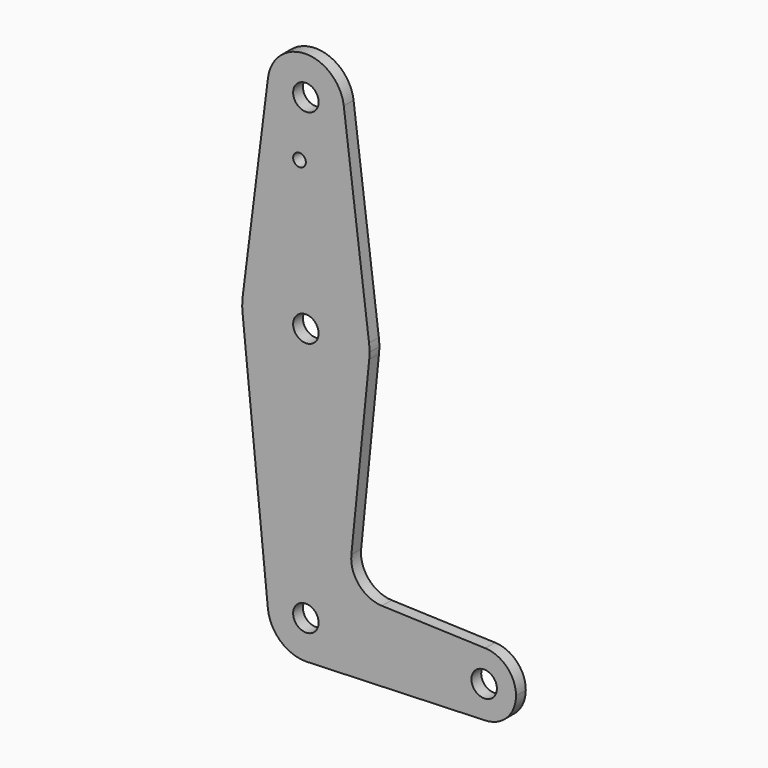
from build123d import *

# Parameters (mm, degrees)
F0_R     = 3.175
F0_R_2   = 1.5875
F1_DEPTH = 3.048


with BuildPart() as f1:
    # F0 (on Front) → F1 (new body)
    with BuildSketch(Plane.XZ):
        with BuildLine():
            ThreePointArc((0.6773435479, -9.500885786), (6.9705567315, -6.4912990883), (9.525, 0))
            ThreePointArc((9.525, 0), (-0.4768479324, 9.5130563464), (-9.4772553384, -0.9525))
            ThreePointArc((-9.4772553384, -0.9525), (-6.3895642457, -7.063929059), (0, -9.525))
            Line((0, -9.525), (0.6773435479, -9.500885786))
        make_face()
        Circle(F0_R, mode=Mode.SUBTRACT)
        with BuildLine():
            ThreePointArc((-9.4772553384, -0.9525), (-0.4768479324, 9.5130563464), (9.525, 0))
            Line((9.525, 0), (36.5125, 0))
            ThreePointArc((36.5125, 0), (38.9384772185, 5.7120069047), (44.7334821429, 7.9324362036))
            Line((44.7334821429, 7.9324362036), (18.9676000005, 8.8532337108))
            ThreePointArc((18.9676000005, 8.8532337108), (13.2611998974, 11.5713591498), (11.3411865923, 17.5933818124))
            Line((11.3411865923, 17.5933818124), (15.7954255641, 61.9125))
            ThreePointArc((15.7954255641, 61.9125), (0, 47.625), (-15.7954255641, 61.9125))
            Line((-15.7954255641, 61.9125), (-9.4772553384, -0.9525))
        make_face()
        with BuildLine():
            Line((36.5125, 0), (9.525, 0))
            ThreePointArc((9.525, 0), (6.9705567315, -6.4912990883), (0.6773435479, -9.500885786))
            Line((0.6773435479, -9.500885786), (44.7324052746, -7.9324746146))
            ThreePointArc((44.7324052746, -7.9324746146), (38.9380895153, -5.7116327839), (36.5125, 0))
        make_face()
        with BuildLine():
            ThreePointArc((44.7334821429, 7.9324362036), (38.9384772185, 5.7120069047), (36.5125, 0))
            ThreePointArc((36.5125, 0), (38.9380895153, -5.7116327839), (44.7324052746, -7.9324746146))
            ThreePointArc((44.7324052746, -7.9324746146), (50.1616327839, -5.5119104847), (52.3875, 0))
            ThreePointArc((52.3875, 0), (50.1620069047, 5.5115227815), (44.7334821429, 7.9324362036))
        make_face()
        with BuildLine():
            ThreePointArc((47.625, 0), (44.45, -3.175), (41.275, 0))
            ThreePointArc((41.275, 0), (44.45, 3.175), (47.625, 0))
        make_face(mode=Mode.SUBTRACT)
        with BuildLine():
            ThreePointArc((0, -9.525), (0.3388863295, -9.5189695375), (0.6773435479, -9.500885786))
            Line((0.6773435479, -9.500885786), (0, -9.525))
        make_face()
        with BuildLine():
            ThreePointArc((-15.7504882737, 65.484375), (-15.8737438155, 63.6997054867), (-15.7954255641, 61.9125))
            ThreePointArc((-15.7954255641, 61.9125), (0, 47.625), (15.7954255641, 61.9125))
            ThreePointArc((15.7954255641, 61.9125), (15.8550939106, 62.7052534459), (15.875, 63.5))
            ThreePointArc((15.875, 63.5), (15.8438414904, 64.4941387366), (15.7504882737, 65.484375))
            ThreePointArc((15.7504882737, 65.484375), (0, 79.375), (-15.7504882737, 65.484375))
        make_face()
        with Locations((0, 63.5)):
            Circle(F0_R, mode=Mode.SUBTRACT)
        with BuildLine():
            Line((-9.4502929642, 115.490625), (-15.7504882737, 65.484375))
            ThreePointArc((-15.7504882737, 65.484375), (0, 79.375), (15.7504882737, 65.484375))
            Line((15.7504882737, 65.484375), (9.4502929642, 115.490625))
            ThreePointArc((9.4502929642, 115.490625), (9.5063048942, 114.896483242), (9.525, 114.3))
            ThreePointArc((9.525, 114.3), (-0.596483242, 104.7936951058), (-9.4502929642, 115.490625))
        make_face()
        with Locations((-1.5875, 100.0252)):
            Circle(F0_R_2, mode=Mode.SUBTRACT)
        with BuildLine():
            ThreePointArc((9.4502929642, 115.490625), (0, 123.825), (-9.4502929642, 115.490625))
            ThreePointArc((-9.4502929642, 115.490625), (-0.596483242, 104.7936951058), (9.525, 114.3))
            ThreePointArc((9.525, 114.3), (9.5063048942, 114.896483242), (9.4502929642, 115.490625))
        make_face()
        with Locations((0, 114.3)):
            Circle(F0_R, mode=Mode.SUBTRACT)
    extrude(amount=F1_DEPTH)


solid = f1.part
